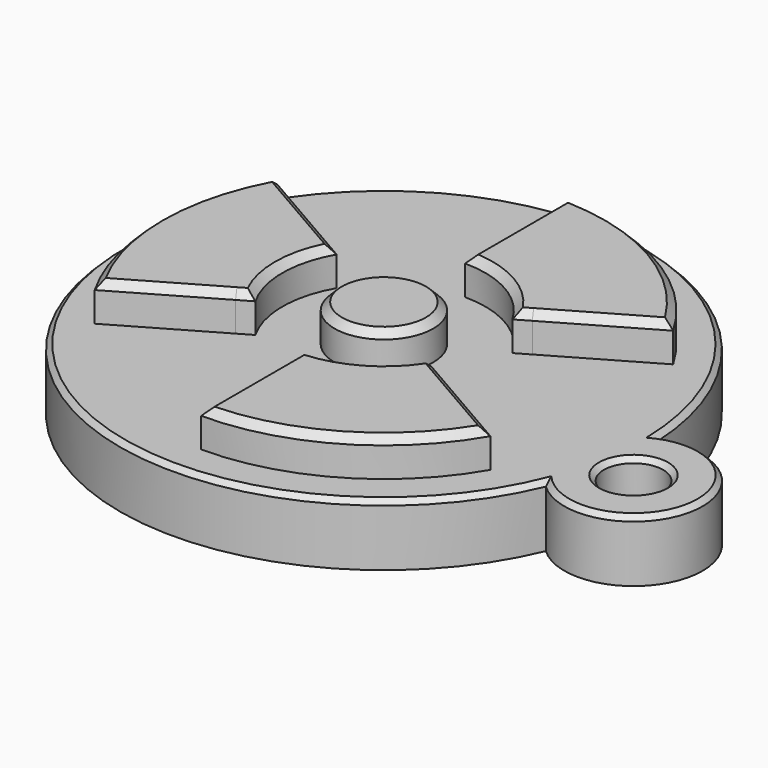
from build123d import *

# Parameters (mm, degrees)
F1_DEPTH  = 1.5
F0_R      = 2
F2_R      = 2
F2_R_2    = 1.2
F3_DEPTH  = 2.5
F4_SIZE   = 0.3
F4_2_SIZE = 0.3
F4_3_SIZE = 0.3
F4_4_SIZE = 0.3
F5_SIZE   = 0.2


with BuildPart() as f1:
    # F0 (on Top) → F1 (new body)
    with BuildSketch(Plane.XY):
        with BuildLine():
            ThreePointArc((45.5146192143, 149.541586003), (47.5699658629, 148.9908575284), (49.0745840368, 147.4862393545))
            Line((49.0745840368, 147.4862393545), (49.6253125115, 147.8042025876))
            Line((49.6253125115, 147.8042025876), (53.5270926728, 150.056896414))
            ThreePointArc((53.5270926728, 150.056896414), (50.1406229225, 153.4433661644), (45.5146192143, 154.6829001221))
            Line((45.5146192143, 154.6829001221), (45.5146192143, 150.1775124692))
            Line((45.5146192143, 150.1775124692), (45.5146192143, 149.541586003))
        make_face()
    extrude(amount=F1_DEPTH)

    # F4#3
    f4_3_edges = [f1.edges().sort_by_distance(p)[0] for p in [
        (45.514619, 152.112243, 1.5),
        (47.569966, 148.990858, 1.5),
        (51.300838, 148.771568, 1.5),
        (50.140623, 153.443366, 1.5),
    ]]
    chamfer(f4_3_edges, length=F4_3_SIZE)


with BuildPart() as f1b:
    # F0 (on Top) → F1, piece 2 (new body)
    with BuildSketch(Plane.XY):
        with BuildLine():
            ThreePointArc((41.9546543919, 143.3755460574), (41.4039259172, 145.4308927059), (41.9546543919, 147.4862393545))
            Line((41.9546543919, 147.4862393545), (41.4039259172, 147.8042025876))
            Line((41.4039259172, 147.8042025876), (37.5021457559, 150.056896414))
            ThreePointArc((37.5021457559, 150.056896414), (36.2626117981, 145.4308927059), (37.5021457559, 140.8048889978))
            Line((37.5021457559, 140.8048889978), (41.4039259172, 143.0575828243))
            Line((41.4039259172, 143.0575828243), (41.9546543919, 143.3755460574))
        make_face()
    extrude(amount=F1_DEPTH)

    # F4
    f4_edges = [f1b.edges().sort_by_distance(p)[0] for p in [
        (39.7284, 142.090218, 1.5),
        (41.403926, 145.430893, 1.5),
        (39.7284, 148.771568, 1.5),
        (36.262612, 145.430893, 1.5),
    ]]
    chamfer(f4_edges, length=F4_SIZE)


with BuildPart() as f1c:
    # F0 (on Top) → F1, piece 3 (new body)
    with BuildSketch(Plane.XY):
        with BuildLine():
            Line((49.6253125115, 143.0575828243), (49.0745840368, 143.3755460574))
            ThreePointArc((49.0745840368, 143.3755460574), (47.5699658629, 141.8709278835), (45.5146192143, 141.3201994088))
            Line((45.5146192143, 141.3201994088), (45.5146192143, 140.6842729426))
            Line((45.5146192143, 140.6842729426), (45.5146192143, 136.1788852897))
            ThreePointArc((45.5146192143, 136.1788852897), (50.1406229225, 137.4184192475), (53.5270926728, 140.8048889978))
            Line((53.5270926728, 140.8048889978), (49.6253125115, 143.0575828243))
        make_face()
    extrude(amount=F1_DEPTH)

    # F4#2
    f4_2_edges = [f1c.edges().sort_by_distance(p)[0] for p in [
        (51.300838, 142.090218, 1.5),
        (47.569966, 141.870928, 1.5),
        (45.514619, 138.749542, 1.5),
        (50.140623, 137.418419, 1.5),
    ]]
    chamfer(f4_2_edges, length=F4_2_SIZE)


with BuildPart() as f1d:
    # F0 (on Top) → F1, piece 4 (new body)
    with BuildSketch(Plane.XY):
        with Locations((45.5146192143, 145.4308927059)):
            Circle(F0_R)
    extrude(amount=F1_DEPTH)

    # F4#4
    f4_4_edges = [f1d.edges().sort_by_distance(p)[0] for p in [
        (43.514619, 145.430893, 1.5),
    ]]
    chamfer(f4_4_edges, length=F4_4_SIZE)


with BuildPart() as f3:
    # F2 (on Top) → F3 (new body)
    with BuildSketch(Plane.XY):
        with BuildLine():
            ThreePointArc((55.3748145236, 141.3051501401), (55.994038114, 143.3268530716), (56.203173993, 145.4308927059))
            ThreePointArc((56.203173993, 145.4308927059), (56.2003138128, 145.67814603), (56.1917348027, 145.9252670277))
            ThreePointArc((56.1917348027, 145.9252670277), (34.9893327698, 147.2919538324), (55.3748145236, 141.3051501401))
        make_face()
        with Locations((45.5146192143, 145.4308927059)):
            Circle(F2_R, mode=Mode.SUBTRACT)
        with BuildLine():
            ThreePointArc((56.1917348027, 145.9252670277), (56.2003138128, 145.67814603), (56.203173993, 145.4308927059))
            ThreePointArc((56.203173993, 145.4308927059), (55.994038114, 143.3268530716), (55.3748145236, 141.3051501401))
            ThreePointArc((55.3748145236, 141.3051501401), (60.0458105409, 142.8615150987), (56.1917348027, 145.9252670277))
        make_face()
        with Locations((57.2885807137, 143.3490432316)):
            Circle(F2_R_2, mode=Mode.SUBTRACT)
        with Locations((45.5146192143, 145.4308927059)):
            Circle(F2_R)
    extrude(amount=-F3_DEPTH)

    # F5
    f5_edges = [f3.edges().sort_by_distance(p)[0] for p in [
        (34.989333, 147.291954, 0),
        (60.045811, 142.861515, 0),
        (56.088581, 143.349043, 0),
    ]]
    chamfer(f5_edges, length=F5_SIZE)


solid = Compound([f1.part, f1b.part, f1c.part, f1d.part, f3.part])
